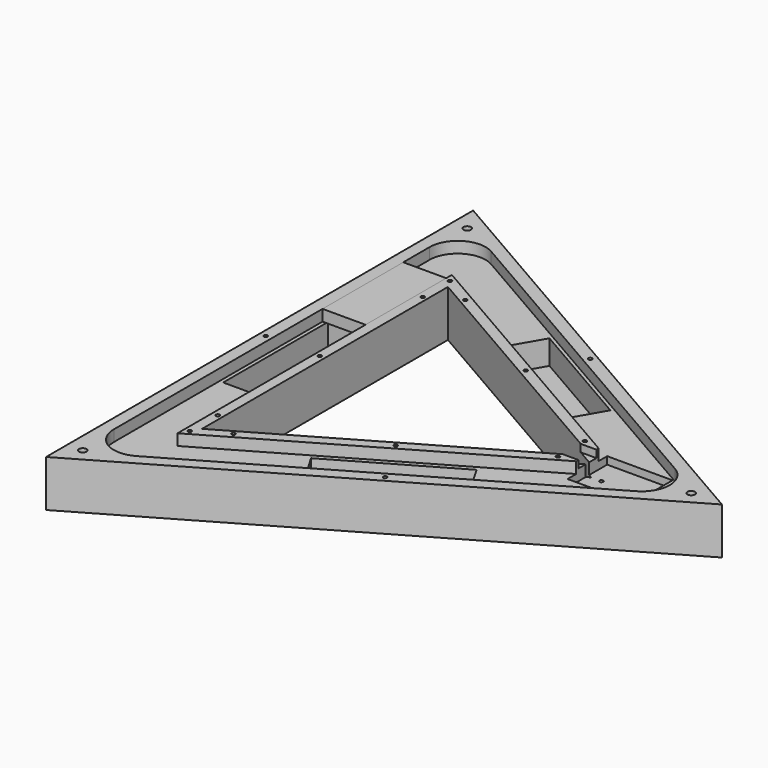
from build123d import *

# Parameters (mm, degrees)
BOX005_W               = 23
BOX005_H               = 54
BOX005_DEPTH           = 6
PRISM003_DEPTH         = 6
PRISM002_DEPTH         = 6
BOX004_W               = 10
BOX004_H               = 12
BOX004_DEPTH           = 4
BOX003_W               = 35
BOX003_H               = 26.5
BOX003_DEPTH           = 10
BOX002_W               = 70
BOX002_H               = 19
BOX002_DEPTH           = 19
BOX002_PLACEMENT_ANGLE = 30
BOX001_W               = 70
BOX001_H               = 19
BOX001_DEPTH           = 19
BOX001_PLACEMENT_ANGLE = 90
BOX_W                  = 70
BOX_H                  = 19
BOX_DEPTH              = 19
BOX_PLACEMENT_ANGLE    = 30
PRISM001_DEPTH         = 25
PRISM_DEPTH            = 25
FILLET_R               = 15
SKETCH001_R            = 2
POCKET_DEPTH           = 782.777352
POLARPATTERN_COUNT     = 3
POCKET001_DEPTH        = 3
SKETCH002_R            = 1
POCKET002_DEPTH        = 782.777352
POLARPATTERN001_COUNT  = 3
SKETCH004_R            = 1
POCKET003_DEPTH        = 782.777352
POLARPATTERN002_COUNT  = 3
POLARPATTERN003_COUNT  = 3
SKETCH005_R            = 1
POCKET004_DEPTH        = 782.777352
POLARPATTERN004_COUNT  = 3


with BuildPart() as box005:
    # Box005 → Box005 (new body)
    with BuildSketch(Plane(origin=(-76, 34, 13), x_dir=(1, 0, 0), z_dir=(0, 0, 1))):
        with Locations((11.5, 27)):
            Rectangle(BOX005_W, BOX005_H)
    extrude(amount=BOX005_DEPTH)


with BuildPart() as prism003:
    # Prism003 → Prism003 (new body)
    with BuildSketch(Plane.XY.offset(13)):
        Polygon((106, 0), (-53, 91.798693), (-53, -91.798693), align=None)
    extrude(amount=PRISM003_DEPTH)


with BuildPart() as cut006:
    # Prism002 → Prism002 (new body)
    with BuildSketch(Plane.XY.offset(13)):
        Polygon((152, 0), (-76, 131.635861), (-76, -131.635861), align=None)
    extrude(amount=PRISM002_DEPTH)

    # Cut006: cut Prism003
    add(prism003.part, mode=Mode.SUBTRACT)


with BuildPart() as box004:
    # Box004 → Box004 (new body)
    with BuildSketch(Plane(origin=(84, -6, 15), x_dir=(1, 0, 0), z_dir=(0, 0, 1))):
        with Locations((5, 6)):
            Rectangle(BOX004_W, BOX004_H)
    extrude(amount=BOX004_DEPTH)


with BuildPart() as box003:
    # Box003 → Box003 (new body)
    with BuildSketch(Plane(origin=(93, -13.3, 9), x_dir=(1, 0, 0), z_dir=(0, 0, 1))):
        with Locations((17.5, 13.25)):
            Rectangle(BOX003_W, BOX003_H)
    extrude(amount=BOX003_DEPTH)


with BuildPart() as box002:
    # Box002 → Box002 (new body)
    with BuildSketch(Plane.XY):
        with Locations((35, 9.5)):
            Rectangle(BOX002_W, BOX002_H)
    extrude(amount=BOX002_DEPTH)


with BuildPart() as box002_1:
    # Box002 placement: moved
    add(box002.part.moved(Location((7, -82, 0))).rotate(Axis((7, -82, 0), (0, 0, 1)), BOX002_PLACEMENT_ANGLE))


with BuildPart() as box001:
    # Box001 → Box001 (new body)
    with BuildSketch(Plane.XY):
        with Locations((35, 9.5)):
            Rectangle(BOX001_W, BOX001_H)
    extrude(amount=BOX001_DEPTH)


with BuildPart() as box001_1:
    # Box001 placement: moved
    add(box001.part.moved(Location((-55, -35, 0))).rotate(Axis((-55, -35, 0), (0, 0, 1)), BOX001_PLACEMENT_ANGLE))


with BuildPart() as box:
    # Box → Box (new body)
    with BuildSketch(Plane.XY):
        with Locations((35, 9.5)):
            Rectangle(BOX_W, BOX_H)
    extrude(amount=BOX_DEPTH)


with BuildPart() as box_1:
    # Box placement: moved
    add(box.part.moved(Location((-2, 65, 0))).rotate(Axis((-2, 65, 0), (0, 0, -1)), BOX_PLACEMENT_ANGLE))


with BuildPart() as prism001:
    # Prism001 → Prism001 (new body)
    with BuildSketch(Plane.XY.offset(-6)):
        Polygon((95, 0), (-47.5, 82.272413), (-47.5, -82.272413), align=None)
    extrude(amount=PRISM001_DEPTH)


with BuildPart() as body:
    # Prism → Prism (new body)
    with BuildSketch(Plane.XY.offset(-6)):
        Polygon((165, 0), (-82.5, 142.894192), (-82.5, -142.894192), align=None)
    extrude(amount=PRISM_DEPTH)

    # Cut: cut Prism001
    add(prism001.part, mode=Mode.SUBTRACT)

    # Cut001: cut Box
    add(box_1.part, mode=Mode.SUBTRACT)

    # Cut002: cut Box001
    add(box001_1.part, mode=Mode.SUBTRACT)

    # Cut003: cut Box002
    add(box002_1.part, mode=Mode.SUBTRACT)

    # Cut004: cut Box003
    add(box003.part, mode=Mode.SUBTRACT)

    # Cut005: cut Box004
    add(box004.part, mode=Mode.SUBTRACT)

    # Cut007: cut Cut006
    add(cut006.part, mode=Mode.SUBTRACT)

    # Fillet
    fillet_edges = [body.edges().sort_by_distance(p)[0] for p in [
        (152, 0, 16),
        (-76, 131.635861, 16),
        (-76, -131.635861, 16),
    ]]
    fillet(fillet_edges, radius=FILLET_R)

    # Sketch001 (on Face1 of BaseFeature) → Pocket (cut, through all)
    with BuildSketch(Plane.XY.offset(19)):
        with Locations((148.549835, 0)):
            Circle(SKETCH001_R)
    pocket = extrude(amount=-POCKET_DEPTH, mode=Mode.SUBTRACT)

    # PolarPattern: Pocket ×3 about axis
    polarpattern_axis = Axis((0, 0, 19), (0, 0, 1))
    for i in range(1, POLARPATTERN_COUNT):
        add(pocket.rotate(polarpattern_axis, i * 360 / POLARPATTERN_COUNT), mode=Mode.SUBTRACT)

    # Sketch003 (on Face14 of PolarPattern) → Pocket001 (cut)
    with BuildSketch(Plane(origin=(0, 0, -6), x_dir=(1, 0, 0), z_dir=(0, 0, -1))):
        Polygon((-70.5, 122.109582), (141, 0), (-70.5, -122.109582), align=None)
        Polygon((-59.5, -103.057023), (-59.5, 103.057023), (119, 0), align=None, mode=Mode.SUBTRACT)
    extrude(amount=-POCKET001_DEPTH, mode=Mode.SUBTRACT)

    # Sketch002 (on Face39 of PolarPattern) → Pocket002 (cut, through all)
    with BuildSketch(Plane.XY.offset(19)):
        with Locations((-50.25, 0)):
            Circle(SKETCH002_R)
        with Locations((-50.25, 87.035553)):
            Circle(SKETCH002_R)
    pocket002 = extrude(amount=-POCKET002_DEPTH, mode=Mode.SUBTRACT)

    # PolarPattern001: Pocket002 ×3 about axis
    polarpattern001_axis = Axis((0, 0, 19), (0, 0, 1))
    for i in range(1, POLARPATTERN001_COUNT):
        add(pocket002.rotate(polarpattern001_axis, i * 360 / POLARPATTERN001_COUNT), mode=Mode.SUBTRACT)

    # Sketch004 (on Face40 of PolarPattern001) → Pocket003 (cut, through all)
    with BuildSketch(Plane.XY.offset(19)):
        with Locations((84.411543, 9)):
            Circle(SKETCH004_R)
        with Locations((84.411543, -9)):
            Circle(SKETCH004_R)
    pocket003 = extrude(amount=-POCKET003_DEPTH, mode=Mode.SUBTRACT)

    # PolarPattern002: Pocket003 ×3 about axis
    polarpattern002_axis = Axis((0, 0, 19), (0, 0, 1))
    for i in range(1, POLARPATTERN002_COUNT):
        add(pocket003.rotate(polarpattern002_axis, i * 360 / POLARPATTERN002_COUNT), mode=Mode.SUBTRACT)

    # PolarPattern003: Pocket002 ×3 about axis
    polarpattern003_axis = Axis((0, 0, 19), (0, 0, 1))
    for i in range(1, POLARPATTERN003_COUNT):
        add(pocket002.rotate(polarpattern003_axis, i * 360 / POLARPATTERN003_COUNT), mode=Mode.SUBTRACT)

    # Sketch005 (on Face1 of PolarPattern003) → Pocket004 (cut, through all)
    with BuildSketch(Plane.XY.offset(19)):
        with Locations((-79.25, 0)):
            Circle(SKETCH005_R)
    pocket004 = extrude(amount=-POCKET004_DEPTH, mode=Mode.SUBTRACT)

    # PolarPattern004: Pocket004 ×3 about axis
    polarpattern004_axis = Axis((0, 0, 19), (0, 0, 1))
    for i in range(1, POLARPATTERN004_COUNT):
        add(pocket004.rotate(polarpattern004_axis, i * 360 / POLARPATTERN004_COUNT), mode=Mode.SUBTRACT)


solid = Compound([box005.part, body.part])
